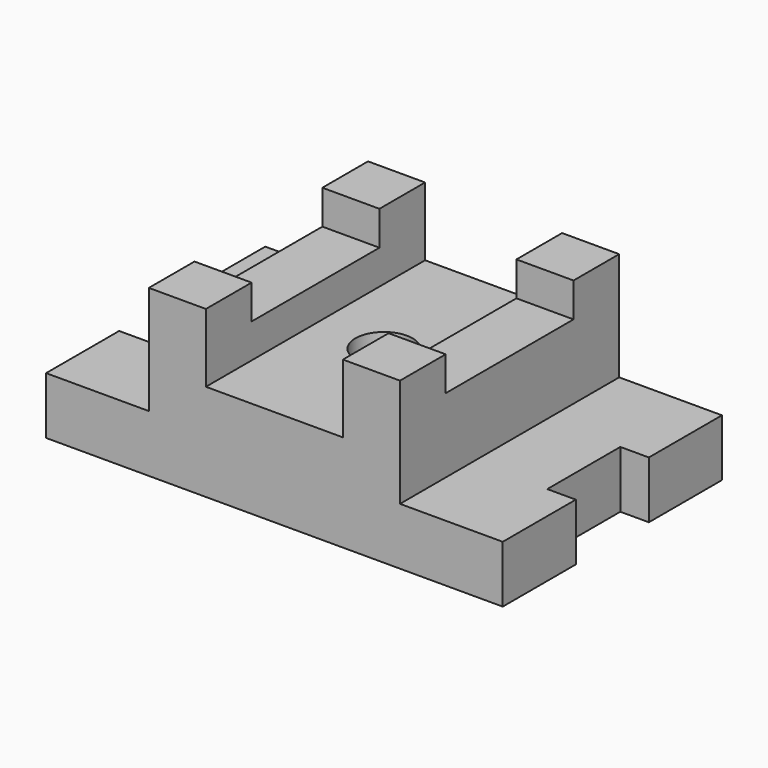
from build123d import *

# Parameters (mm, degrees)
F1_DEPTH = 31.75
F2_W     = 139.7
F2_H     = 152.4
F3_DEPTH = 22.225
F4_W     = 31.75
F4_H     = 31.75
F5_DEPTH = 38.1
F4_H_2   = 88.9
F6_DEPTH = 19.05
F7_R     = 15.875
F8_DEPTH = 53.976


with BuildPart() as f1:
    # F0 (on Top) → F1 (new body)
    with BuildSketch(Plane.XY):
        Polygon((127, 152.4), (-127, 152.4), (-127, 101.6), (-111.125, 101.6), (-111.125, 50.8), (-127, 50.8), (-127, 0), (127, 0), (127, 50.8), (111.125, 50.8), (111.125, 101.6), (127, 101.6), align=None)
    extrude(amount=F1_DEPTH)

    # F2 (on face) → F3 (join)
    with BuildSketch(Plane.XY.offset(31.75)):
        with Locations((0, 76.2)):
            Rectangle(F2_W, F2_H)
    extrude(amount=F3_DEPTH)

    # F4 (on face) → F5 (join)
    with BuildSketch(Plane.XY.offset(53.975)):
        with Locations((-53.975, 136.525)):
            Rectangle(F4_W, F4_H)
        with Locations((-53.975, 15.875)):
            Rectangle(F4_W, F4_H)
        with Locations((53.975, 15.875)):
            Rectangle(F4_W, F4_H)
        with Locations((53.975, 136.525)):
            Rectangle(F4_W, F4_H)
    extrude(amount=F5_DEPTH)

    # F4 (on face) → F6 (join)
    with BuildSketch(Plane.XY.offset(53.975)):
        with Locations((-53.975, 76.2)):
            Rectangle(F4_W, F4_H_2)
        with Locations((53.975, 76.2)):
            Rectangle(F4_W, F4_H_2)
    extrude(amount=F6_DEPTH)

    # F7 (on face) → F8 (cut, through all)
    with BuildSketch(Plane.XY.offset(53.975)):
        with Locations((0, 76.2)):
            Circle(F7_R)
    extrude(amount=-F8_DEPTH, mode=Mode.SUBTRACT)


solid = f1.part
